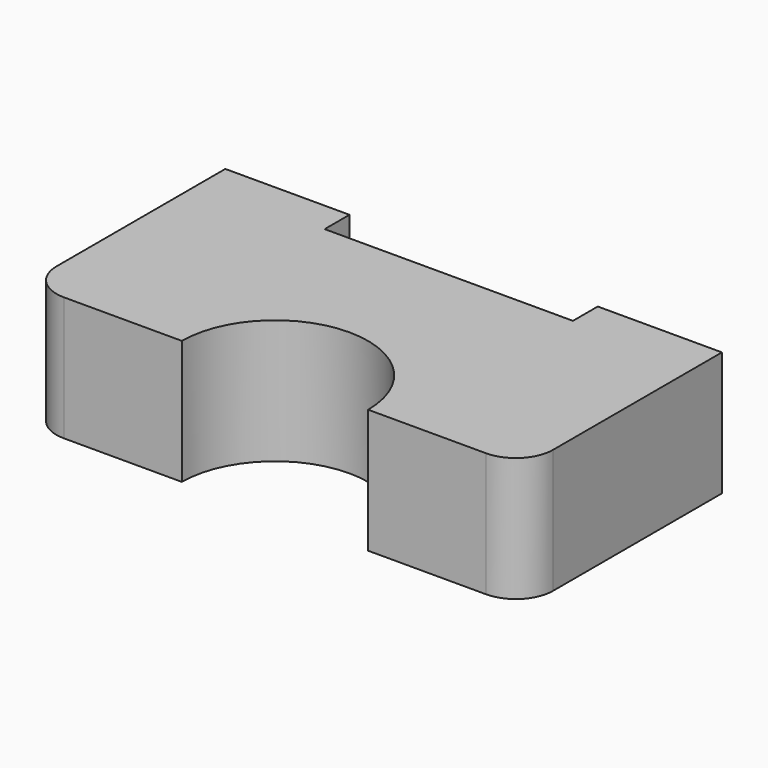
from build123d import *

# Parameters (mm, degrees)
F0_W     = 101.6
F0_H     = 50.8
F1_DEPTH = 25.4
F2_R     = 7.62
F3_W     = 50.8
F3_H     = 6.35
F4_DEPTH = 19.05
F5_R     = 19.05
F6_DEPTH = 25.4


with BuildPart() as f1:
    # F0 (on Top) → F1 (new body)
    with BuildSketch(Plane.XY):
        Rectangle(F0_W, F0_H)
    extrude(amount=F1_DEPTH)

    # F2
    f2_edges = [f1.edges().sort_by_distance(p)[0] for p in [
        (-50.8, -25.4, 12.7),
        (50.8, -25.4, 12.7),
    ]]
    fillet(f2_edges, radius=F2_R)

    # F3 (on face) → F4 (cut)
    with BuildSketch(Plane.XY.offset(25.4)):
        with Locations((0, 22.225)):
            Rectangle(F3_W, F3_H)
    extrude(amount=-F4_DEPTH, mode=Mode.SUBTRACT)

    # F5 (on face) → F6 (cut)
    with BuildSketch(Plane.XY.offset(25.4)):
        with Locations((0, -25.4)):
            Circle(F5_R)
    extrude(amount=-F6_DEPTH, mode=Mode.SUBTRACT)


solid = f1.part
